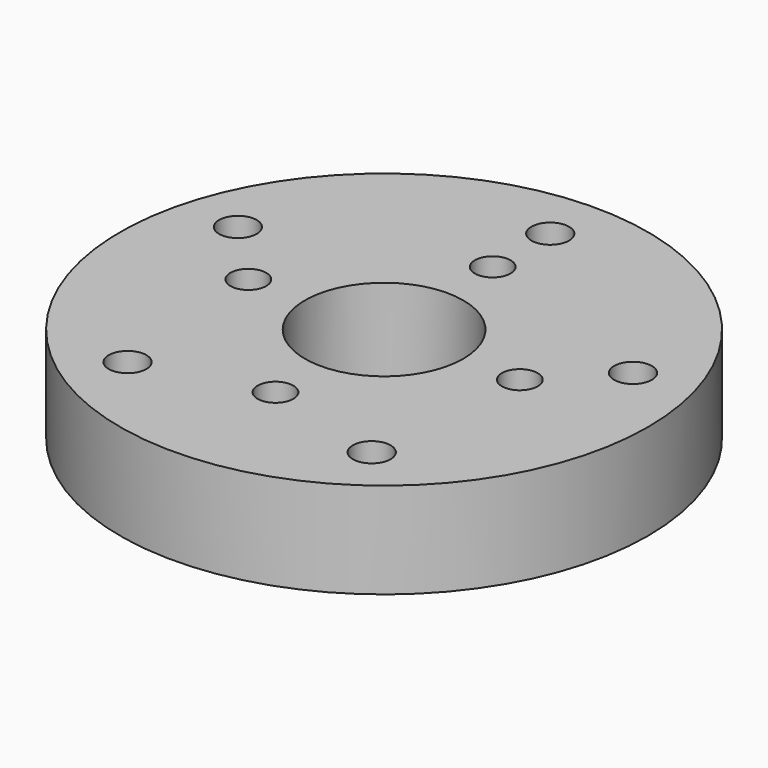
from build123d import *

# Parameters (mm, degrees)
F0_R     = 70
F0_R_2   = 5
F0_R_3   = 4.75
F0_R_4   = 21
F1_DEPTH = 25.4


with BuildPart() as f1:
    # F0 (on Top) → F1 (new body)
    with BuildSketch(Plane.XY):
        Circle(F0_R)
        with Locations((-32.377256, -44.563469)):
            Circle(F0_R_2, mode=Mode.SUBTRACT)
        with Locations((0, -36)):
            Circle(F0_R_3, mode=Mode.SUBTRACT)
        with Locations((32.377256, -44.563469)):
            Circle(F0_R_2, mode=Mode.SUBTRACT)
        with Locations((-36, 0)):
            Circle(F0_R_3, mode=Mode.SUBTRACT)
        with Locations((-52.3875, 17.021731)):
            Circle(F0_R_2, mode=Mode.SUBTRACT)
        Circle(F0_R_4, mode=Mode.SUBTRACT)
        with Locations((36, 0)):
            Circle(F0_R_3, mode=Mode.SUBTRACT)
        with Locations((52.3875, 17.021731)):
            Circle(F0_R_2, mode=Mode.SUBTRACT)
        with Locations((0, 36)):
            Circle(F0_R_3, mode=Mode.SUBTRACT)
        with Locations((0, 55.083477)):
            Circle(F0_R_2, mode=Mode.SUBTRACT)
    extrude(amount=F1_DEPTH)


solid = f1.part
